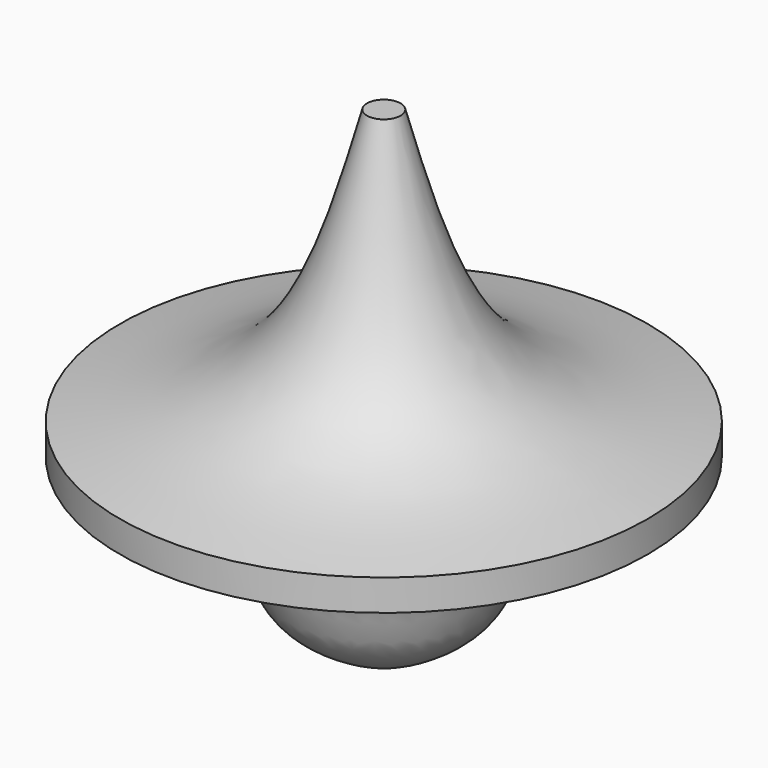
from build123d import *


with BuildPart() as f1:
    # F0 (on Front) → F1 (revolve)
    with BuildSketch(Plane.XZ):
        with BuildLine():
            Line((0, 53.34), (0, 0))
            add(Edge.make_bspline(
                [(0, 0), (4.2046903237, 1.9233456933), (12.060972479, 5.2112739284), (11.7412179626, 17.5174426907), (22.8042102793, 18.4167650622), (28.7388929677, 20.0555792463)],
                knots=[0, 0, 0, 0, 0.3352026457, 0.621891281, 1, 1, 1, 1], degree=3))
            Line((28.7388929677, 20.0555792463), (28.7388929677, 23.4482290608))
            add(Edge.make_bspline(
                [(28.7388929677, 23.4482290608), (22.5337026078, 24.6370427265), (8.7395090674, 27.2606527526), (4.3413267784, 44.0751804174), (1.8263263861, 53.34)],
                knots=[0, 0, 0, 0, 0.4577244034, 1, 1, 1, 1], degree=3))
            Line((1.8263263861, 53.34), (0, 53.34))
        make_face()
    revolve(axis=Axis((0, 0, 26.67), (0, 0, -1)))


solid = f1.part
